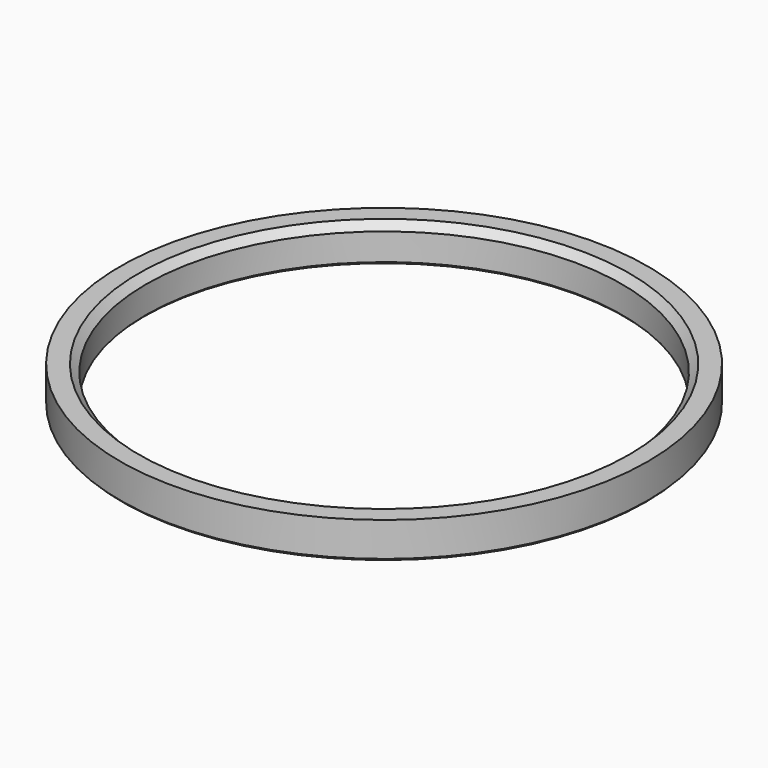
from build123d import *

# Parameters (mm, degrees)
SKETCH_R        = 36.2
SKETCH_R_2      = 32.65
PAD_DEPTH       = 5
CHAMFER_SIZE    = 1
CHAMFER001_SIZE = 0.3


with BuildPart() as part:
    # Sketch → Pad (new body)
    with BuildSketch(Plane.XY):
        Circle(SKETCH_R)
        Circle(SKETCH_R_2, mode=Mode.SUBTRACT)
    extrude(amount=PAD_DEPTH)

    # Chamfer
    chamfer_edges = [part.edges().sort_by_distance(p)[0] for p in [
        (-32.65, 0, 5),
    ]]
    chamfer(chamfer_edges, length=CHAMFER_SIZE)

    # Chamfer001
    chamfer001_edges = [part.edges().sort_by_distance(p)[0] for p in [
        (-36.2, 0, 0),
        (-32.65, 0, 0),
    ]]
    chamfer(chamfer001_edges, length=CHAMFER001_SIZE)


solid = part.part
